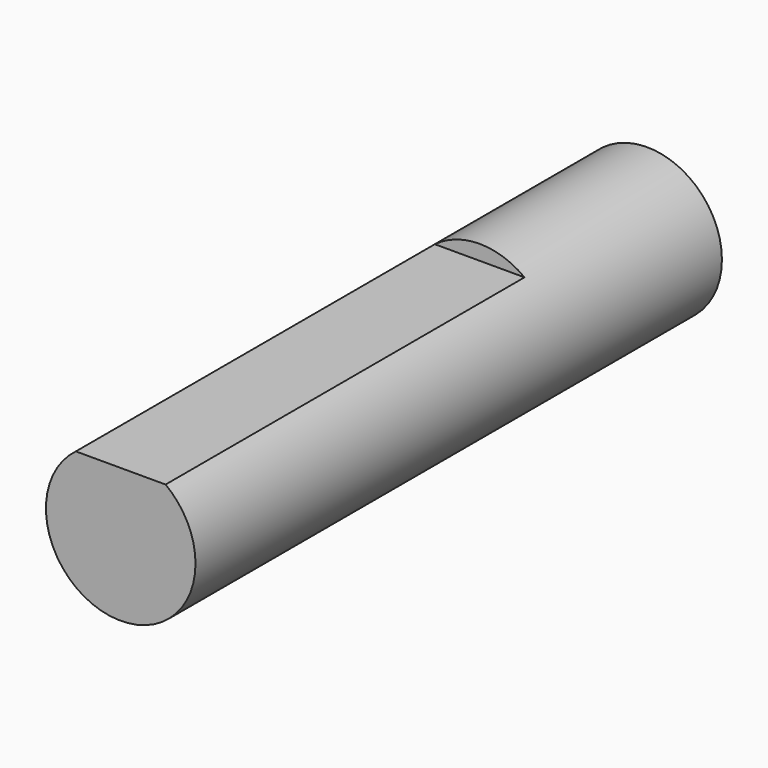
from build123d import *

# Parameters (mm, degrees)
F0_W      = 42.3
F0_H      = 42.3
F1_DEPTH  = 59
F2_R      = 11
F3_DEPTH  = 2
F4_R      = 2.5
F5_DEPTH  = 22
F7_DEPTH  = 15
F9_DEPTH  = 4.5
F10_DEPTH = 61


with BuildPart() as f1:
    # F0 (on Front) → F1 (new body)
    with BuildSketch(Plane.XZ):
        Rectangle(F0_W, F0_H)
    extrude(amount=F1_DEPTH)

    # F2 (on face) → F3 (join)
    with BuildSketch(Plane.XZ.offset(59)):
        Circle(F2_R)
    extrude(amount=F3_DEPTH)

    # F4 (on face) → F5 (join)
    with BuildSketch(Plane.XZ.offset(61)):
        Circle(F4_R)
    extrude(amount=F5_DEPTH)

    # F6 (on face) → F7 (cut)
    with BuildSketch(Plane.XZ.offset(83)):
        with BuildLine():
            ThreePointArc((0, 2.5), (-0.790569415, 2.3717082451), (-1.5, 2))
            Line((-1.5, 2), (0, 2))
            Line((0, 2), (0, 2.5))
        make_face()
        with BuildLine():
            Line((0, 2.5), (0, 2))
            Line((0, 2), (1.5, 2))
            ThreePointArc((1.5, 2), (0.790569415, 2.3717082451), (0, 2.5))
        make_face()
    extrude(amount=-F7_DEPTH, mode=Mode.SUBTRACT)

    # F8 (on face) → F9 (cut)
    with BuildSketch(Plane.XZ.offset(59)):
        with BuildLine():
            ThreePointArc((16.75, 15.5), (15.5, 16.75), (14.25, 15.5))
            Line((14.25, 15.5), (15.5, 15.5))
            Line((15.5, 15.5), (15.5, 14.25))
            ThreePointArc((15.5, 14.25), (16.3838834765, 14.6161165235), (16.75, 15.5))
        make_face()
        with BuildLine():
            Line((15.5, 15.5), (14.25, 15.5))
            ThreePointArc((14.25, 15.5), (14.6161165235, 14.6161165235), (15.5, 14.25))
            Line((15.5, 14.25), (15.5, 15.5))
        make_face()
        with BuildLine():
            Line((-15.5, 14.25), (-15.5, 15.5))
            Line((-15.5, 15.5), (-14.25, 15.5))
            ThreePointArc((-14.25, 15.5), (-16.3838834765, 16.3838834765), (-15.5, 14.25))
        make_face()
        with BuildLine():
            Line((-14.25, 15.5), (-15.5, 15.5))
            Line((-15.5, 15.5), (-15.5, 14.25))
            ThreePointArc((-15.5, 14.25), (-14.6161165235, 14.6161165235), (-14.25, 15.5))
        make_face()
        with BuildLine():
            Line((-15.5, -15.5), (-15.5, -14.25))
            ThreePointArc((-15.5, -14.25), (-16.3838834765, -16.3838834765), (-14.25, -15.5))
            Line((-14.25, -15.5), (-15.5, -15.5))
        make_face()
        with BuildLine():
            ThreePointArc((-14.25, -15.5), (-14.6161165235, -14.6161165235), (-15.5, -14.25))
            Line((-15.5, -14.25), (-15.5, -15.5))
            Line((-15.5, -15.5), (-14.25, -15.5))
        make_face()
        with BuildLine():
            Line((15.5, -15.5), (15.5, -14.25))
            ThreePointArc((15.5, -14.25), (14.6161165235, -14.6161165235), (14.25, -15.5))
            Line((14.25, -15.5), (15.5, -15.5))
        make_face()
        with BuildLine():
            ThreePointArc((16.75, -15.5), (16.3838834765, -14.6161165235), (15.5, -14.25))
            Line((15.5, -14.25), (15.5, -15.5))
            Line((15.5, -15.5), (14.25, -15.5))
            ThreePointArc((14.25, -15.5), (15.5, -16.75), (16.75, -15.5))
        make_face()
    extrude(amount=-F9_DEPTH, mode=Mode.SUBTRACT)

    # F10 (cut): a face of the model
    f10_faces = [f1.faces().sort_by_distance(p)[0] for p in [
        (0, 0, 0),
    ]]
    extrude(f10_faces, amount=-F10_DEPTH, mode=Mode.SUBTRACT)


solid = f1.part
